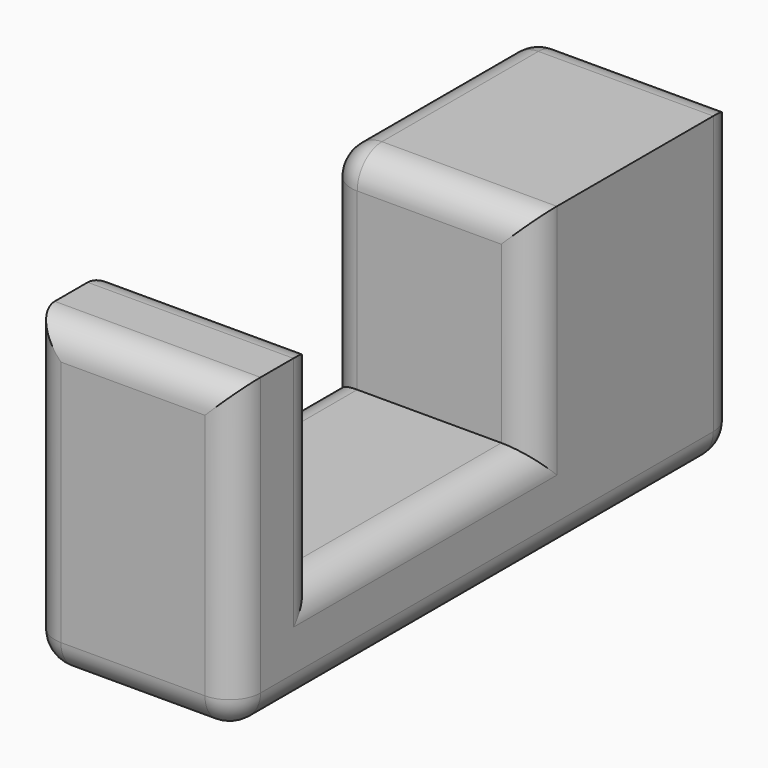
from build123d import *

# Parameters (mm, degrees)
F1_DEPTH = 20
F2_R     = 3


with BuildPart() as f1:
    # F0 (on Right) → F1 (new body)
    with BuildSketch(Plane.YZ):
        Polygon((0, 30), (0, 0), (61, 0), (61, 30), (36, 30), (36, 10), (10, 10), (10, 30), align=None)
    extrude(amount=F1_DEPTH)

    # F2
    f2_edges = [f1.edges().sort_by_distance(p)[0] for p in [
        (20, 30.5, 0),
        (10, 0, 0),
        (20, 0, 15),
        (0, 0, 15),
        (0, 30.5, 0),
        (10, 0, 30),
        (10, 61, 0),
        (0, 61, 15),
        (20, 61, 15),
        (10, 61, 30),
        (20, 23, 10),
        (20, 36, 20),
        (20, 10, 20),
        (10, 10, 30),
        (10, 36, 30),
        (0, 48.5, 30),
        (0, 23, 10),
        (0, 36, 20),
        (0, 10, 20),
    ]]
    fillet(f2_edges, radius=F2_R)


solid = f1.part
